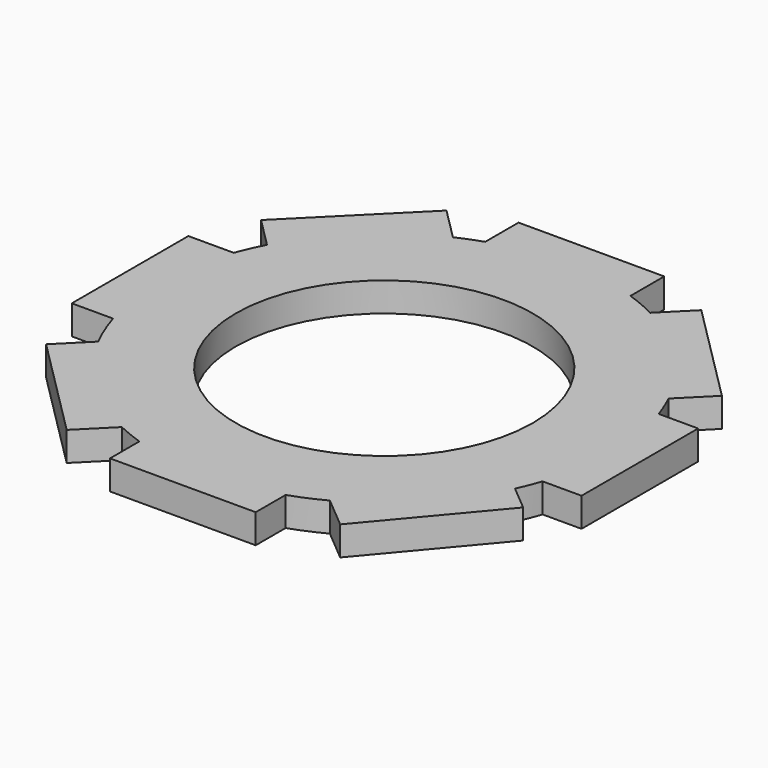
from build123d import *

# Parameters (mm, degrees)
F0_R     = 59.56666
F1_DEPTH = 3.81
F2_R     = 38.83477
F3_DEPTH = 25.4
F4_W     = 12.7
F4_H     = 38.1
F4_W_2   = 38.1
F4_H_2   = 12.7
F5_DEPTH = 3.81


with BuildPart() as f1:
    # F0 (on Top) → F1 (new body, symmetric)
    with BuildSketch(Plane.XY):
        Circle(F0_R)
    extrude(amount=F1_DEPTH, both=True)

    # F2 (on face) → F3 (cut)
    with BuildSketch(Plane.XY.offset(3.81)):
        Circle(F2_R)
    extrude(amount=-F3_DEPTH, mode=Mode.SUBTRACT)

    # F4 (on Top) → F5 (join, symmetric)
    with BuildSketch(Plane.XY):
        Polygon((-51.550063, -25.89613), (-60.530319, -34.876386), (-33.589551, -61.817154), (-24.609294, -52.836898), align=None)
        Polygon((26.389541, -51.384653), (36.118306, -59.548056), (60.608514, -30.361762), (50.879749, -22.19836), align=None)
        with Locations((60.338904, 0.166861)):
            Rectangle(F4_W, F4_H)
        with Locations((0.23175, -59.773433)):
            Rectangle(F4_W_2, F4_H_2)
        with Locations((-61.395693, 1.594452)):
            Rectangle(F4_W, F4_H)
        Polygon((-60.575688, 35.438669), (-51.595432, 26.458413), (-24.654663, 53.399182), (-33.63492, 62.379438), align=None)
        with Locations((0.23175, 61.052699)):
            Rectangle(F4_W_2, F4_H_2)
        Polygon((34.518826, 60.477025), (25.53857, 51.496769), (52.479338, 24.556001), (61.459594, 33.536257), align=None)
    extrude(amount=F5_DEPTH, both=True)


solid = f1.part
